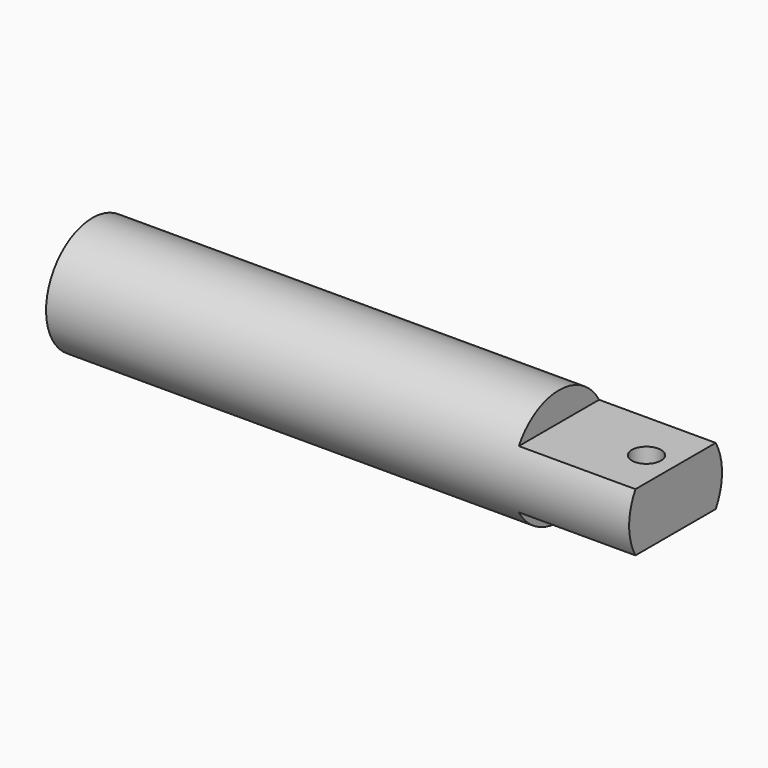
from build123d import *

# Parameters (mm, degrees)
F2_W          = 41.4834554429
F2_H          = 17.2684927762
F2_W_2        = 42.2376932307
F2_H_2        = 14.5319317758
F3_DEPTH      = 12.6375
F3_DEPTH_BACK = 25.4
F5_D          = 6.35


with BuildPart() as f1:
    # F0 (on Front) → F1 (revolve)
    with BuildSketch(Plane.XZ):
        with BuildLine():
            ThreePointArc((0, 10.9985226281), (4.6485226281, 6.35), (6.35, 0))
            Line((6.35, 0), (127, 0))
            Line((127, 0), (127, 12.6365))
            Line((127, 12.6365), (0, 12.6365))
            Line((0, 12.6365), (0, 10.9985226281))
        make_face()
    revolve(axis=Axis((66.675, 0, 0), (1, 0, 0)))

    # F2 (on Front) → F3 (cut, two sides)
    with BuildSketch(Plane.XZ) as f3_sk:
        with Locations((122.3417277214, 14.9842463881)):
            Rectangle(F2_W, F2_H)
        with Locations((122.7188466154, -13.6159658879)):
            Rectangle(F2_W_2, F2_H_2)
    extrude(amount=-F3_DEPTH, mode=Mode.SUBTRACT)
    extrude(f3_sk.sketch, amount=F3_DEPTH_BACK, mode=Mode.SUBTRACT)

    # F5 (through all)
    with Locations(Plane(origin=(0, 0, -6.35), x_dir=(1, 0, 0), z_dir=(0, 0, -1))):
        with Locations((120.65, 0)):
            Hole(F5_D / 2)


solid = f1.part
